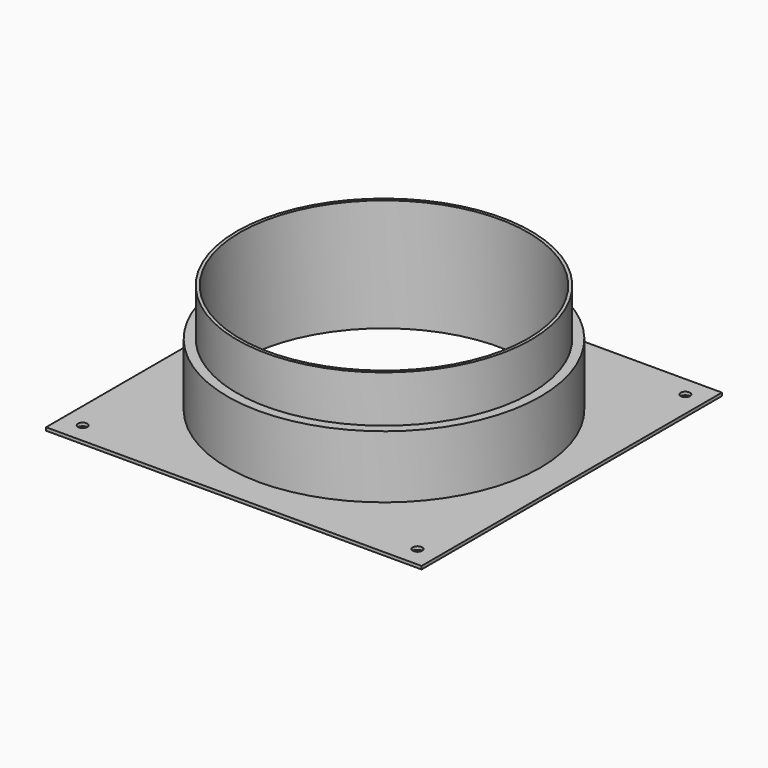
from build123d import *

# Parameters (mm, degrees)
F0_W     = 120
F0_H     = 120
F1_DEPTH = 1
F2_R     = 50
F3_DEPTH = 20
F4_R     = 47
F5_DEPTH = 15
F6_R     = 46
F7_DEPTH = 56.8
F8_R     = 1.5
F9_DEPTH = 25


with BuildPart() as f1:
    # F0 (on Top) → F1 (new body)
    with BuildSketch(Plane.XY):
        Rectangle(F0_W, F0_H)
    extrude(amount=F1_DEPTH)

    # F2 (on face) → F3 (join)
    with BuildSketch(Plane.XY.offset(1)):
        Circle(F2_R)
    extrude(amount=F3_DEPTH)

    # F4 (on face) → F5 (join)
    with BuildSketch(Plane.XY.offset(21)):
        Circle(F4_R)
    extrude(amount=F5_DEPTH)

    # F6 (on face) → F7 (cut)
    with BuildSketch(Plane.XY.offset(36)):
        Circle(F6_R)
    extrude(amount=-F7_DEPTH, mode=Mode.SUBTRACT)

    # F8 (on face) → F9 (cut)
    with BuildSketch(Plane.XY.offset(1)):
        with Locations((-53.5, -53.5)):
            Circle(F8_R)
        with Locations((53.5, -53.5)):
            Circle(F8_R)
        with Locations((-53.5, 53.5)):
            Circle(F8_R)
        with Locations((53.5, 53.5)):
            Circle(F8_R)
    extrude(amount=-F9_DEPTH, mode=Mode.SUBTRACT)


solid = f1.part
